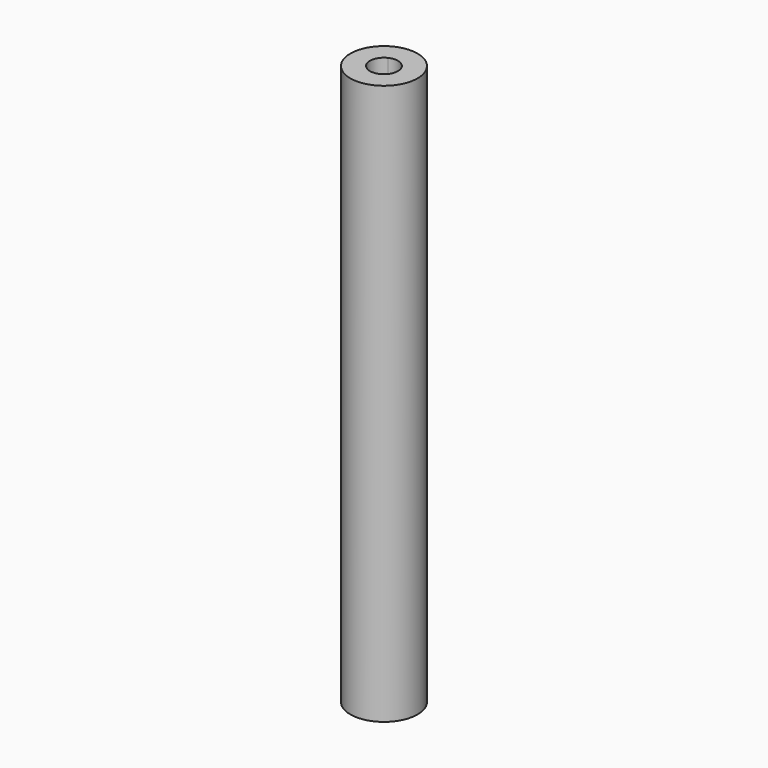
from build123d import *

# Parameters (mm, degrees)
F1_DEPTH = 500


with BuildPart() as f1:
    # F0 (on Top) → F1 (new body, symmetric)
    with BuildSketch(Plane.XY):
        with BuildLine():
            Line((21.8086688348, 12.2221914423), (60, 0))
            ThreePointArc((60, 0), (18.287854049, 57.1450294801), (-48.8518131428, 34.8353319585))
            Line((-48.8518131428, 34.8353319585), (-10.6604819776, 22.6131405162))
            ThreePointArc((-10.6604819776, 22.6131405162), (7.6199391871, 23.8104289501), (21.8086688348, 12.2221914423))
        make_face()
        with BuildLine():
            ThreePointArc((-48.8518131428, 34.8353319585), (-18.287854049, -57.1450294801), (60, 0))
            Line((60, 0), (21.8086688348, 12.2221914423))
            ThreePointArc((21.8086688348, 12.2221914423), (24.1890132175, 6.3159828661), (25, 0))
            ThreePointArc((25, 0), (-13.3882028398, -21.1129350096), (-10.6604819776, 22.6131405162))
            Line((-10.6604819776, 22.6131405162), (-48.8518131428, 34.8353319585))
        make_face()
    extrude(amount=F1_DEPTH, both=True)


solid = f1.part
